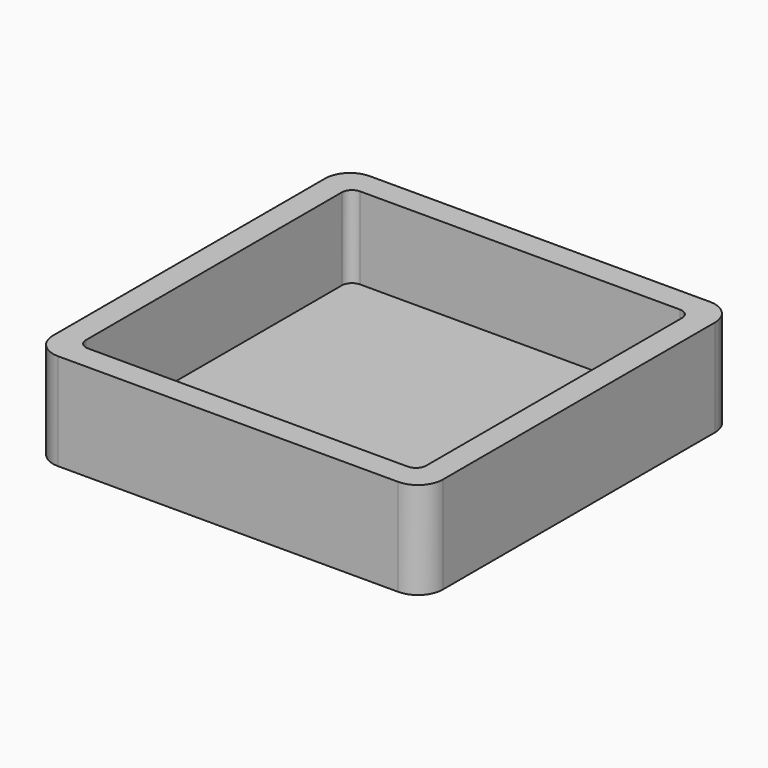
from build123d import *

# Parameters (mm, degrees)
F0_W     = 39.878
F0_H     = 39.878
F1_DEPTH = 9.906
F2_R     = 2.54
F3_W     = 34.798
F3_H     = 34.798
F4_DEPTH = 8.382
F5_R     = 1.042457


with BuildPart() as f1:
    # F0 (on Top) → F1 (new body)
    with BuildSketch(Plane.XY):
        with Locations((-6.466975, -3.760295)):
            Rectangle(F0_W, F0_H)
    extrude(amount=F1_DEPTH)

    # F2
    f2_edges = [f1.edges().sort_by_distance(p)[0] for p in [
        (13.472025, -23.699295, 4.953),
        (-26.405975, -23.699295, 4.953),
        (-26.405975, 16.178705, 4.953),
        (13.472025, 16.178705, 4.953),
    ]]
    fillet(f2_edges, radius=F2_R)

    # F3 (on face) → F4 (cut)
    with BuildSketch(Plane.XY.offset(9.906)):
        with Locations((-6.466975, -3.760295)):
            Rectangle(F3_W, F3_H)
    extrude(amount=-F4_DEPTH, mode=Mode.SUBTRACT)

    # F5
    f5_edges = [f1.edges().sort_by_distance(p)[0] for p in [
        (-23.865975, 13.638705, 5.715),
        (10.932025, 13.638705, 5.715),
        (10.932025, -21.159295, 5.715),
        (-23.865975, -21.159295, 5.715),
    ]]
    fillet(f5_edges, radius=F5_R)


solid = f1.part
